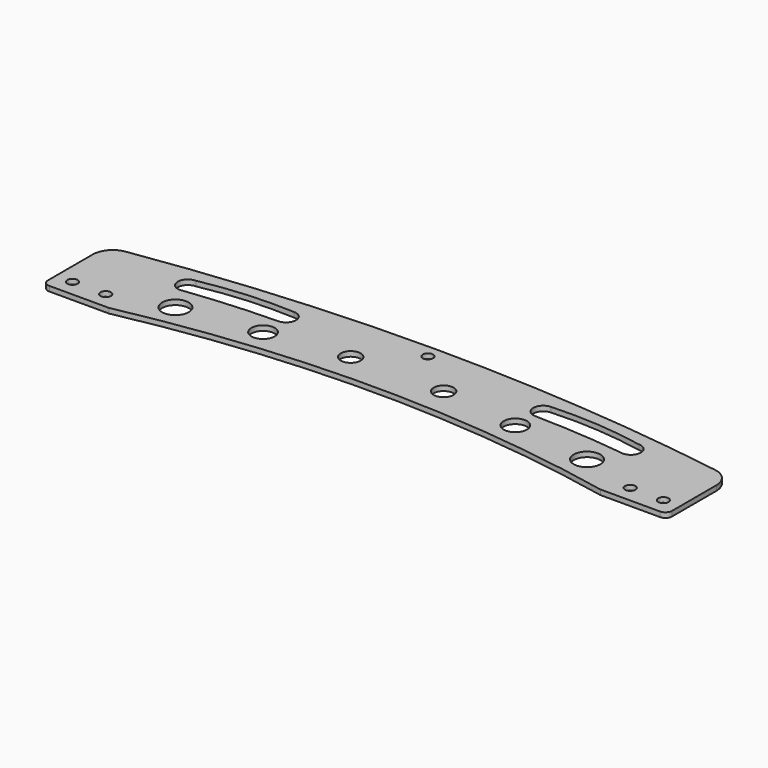
from build123d import *

# Parameters (mm, degrees)
F0_R     = 9.906
F0_R_2   = 25.4
F0_R_3   = 22.225
F0_R_4   = 19.05
F1_DEPTH = 9.525


with BuildPart() as f1:
    # F0 (on Top) → F1 (new body)
    with BuildSketch(Plane.XY):
        with BuildLine():
            ThreePointArc((0, 12.7), (3.719744, 3.719744), (12.7, 0))
            Line((12.7, 0), (127, 0))
            ThreePointArc((127, 0), (596.9, 48.133501), (1066.8, 0))
            Line((1066.8, 0), (1181.1, 0))
            ThreePointArc((1181.1, 0), (1190.080256, 3.719744), (1193.8, 12.7))
            Line((1193.8, 12.7), (1193.8, 118.670491))
            ThreePointArc((1193.8, 118.670491), (1184.647236, 143.442805), (1161.586482, 156.313011))
            ThreePointArc((1161.586482, 156.313011), (880.094595, 189.294871), (596.9, 200.533501))
            Line((596.9, 200.533501), (588.219739, 200.533501))
            ThreePointArc((588.219739, 200.533501), (309.44977, 189.638681), (32.304252, 157.673781))
            ThreePointArc((32.304252, 157.673781), (9.182635, 144.824361), (0, 120.017184))
            Line((0, 120.017184), (0, 12.7))
        make_face()
        with Locations((31.75, 31.75)):
            Circle(F0_R, mode=Mode.SUBTRACT)
        with Locations((95.25, 31.75)):
            Circle(F0_R, mode=Mode.SUBTRACT)
        with Locations((203.2, 63.5)):
            Circle(F0_R_2, mode=Mode.SUBTRACT)
        with Locations((355.6, 82.55)):
            Circle(F0_R_3, mode=Mode.SUBTRACT)
        with Locations((1098.55, 31.75)):
            Circle(F0_R, mode=Mode.SUBTRACT)
        with Locations((1162.05, 31.75)):
            Circle(F0_R, mode=Mode.SUBTRACT)
        with Locations((838.2, 82.55)):
            Circle(F0_R_3, mode=Mode.SUBTRACT)
        with Locations((990.6, 63.5)):
            Circle(F0_R_2, mode=Mode.SUBTRACT)
        with BuildLine():
            ThreePointArc((173.13095, 111.633501), (154.08095, 130.683501), (173.13095, 149.733501))
            ThreePointArc((173.13095, 149.733501), (261.640222, 161.553695), (350.93095, 162.433501))
            ThreePointArc((350.93095, 162.433501), (369.98095, 143.383501), (350.93095, 124.333501))
            ThreePointArc((350.93095, 124.333501), (264.238158, 120.644023), (177.875434, 112.233775))
            ThreePointArc((177.875434, 112.233775), (175.522104, 111.784165), (173.13095, 111.633501))
        make_face(mode=Mode.SUBTRACT)
        with Locations((508, 101.6)):
            Circle(F0_R_4, mode=Mode.SUBTRACT)
        with Locations((685.8, 101.6)):
            Circle(F0_R_4, mode=Mode.SUBTRACT)
        with BuildLine():
            ThreePointArc((1015.924566, 112.233775), (929.561842, 120.644023), (842.86905, 124.333501))
            ThreePointArc((842.86905, 124.333501), (823.81905, 143.383501), (842.86905, 162.433501))
            ThreePointArc((842.86905, 162.433501), (932.159778, 161.553695), (1020.66905, 149.733501))
            ThreePointArc((1020.66905, 149.733501), (1039.71905, 130.683501), (1020.66905, 111.633501))
            ThreePointArc((1020.66905, 111.633501), (1018.277896, 111.784165), (1015.924566, 112.233775))
        make_face(mode=Mode.SUBTRACT)
        with Locations((596.9, 175.133501)):
            Circle(F0_R, mode=Mode.SUBTRACT)
    extrude(amount=F1_DEPTH)


solid = f1.part
